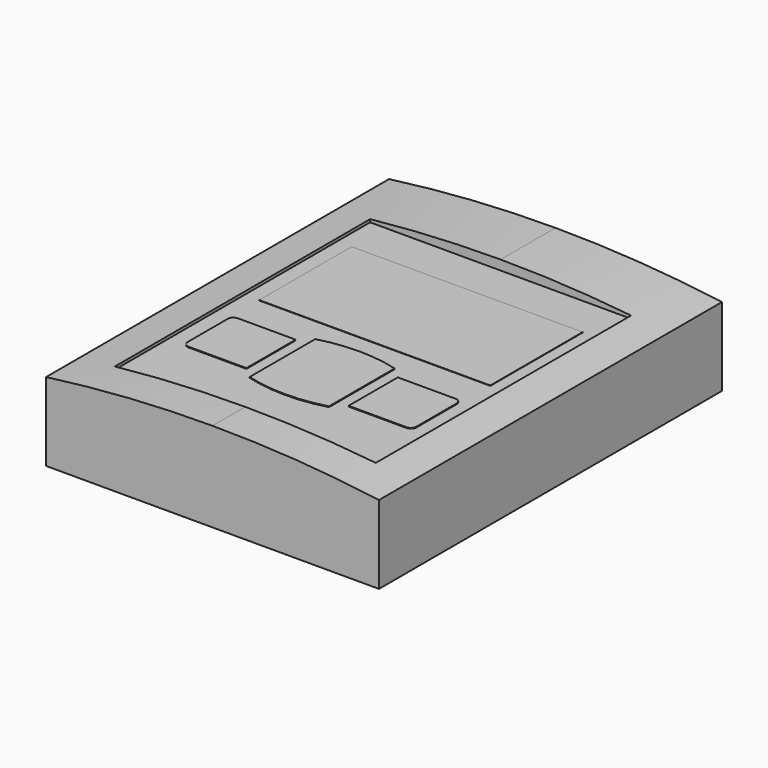
from build123d import *

# Parameters (mm, degrees)
F1_DEPTH  = 57.5
F2_W      = 16
F2_H      = 15.3
F3_DEPTH  = 3
F2_R      = 2
F4_DEPTH  = 10
F6_W      = 70
F6_H      = 85.6
F7_DEPTH  = 2.6
F8_W      = 62
F8_H      = 31
F9_DEPTH  = 0.1
F10_DEPTH = 0.2


with BuildPart() as f1:
    # F0 (on Front) → F1 (new body, symmetric)
    with BuildSketch(Plane.XZ):
        with BuildLine():
            Line((-44.65, 0), (0, 0))
            Line((0, 0), (0, 24))
            ThreePointArc((0, 24), (-22.375335, 23.249155), (-44.65, 21))
            Line((-44.65, 21), (-44.65, 0))
        make_face()
        with BuildLine():
            Line((0, 24), (0, 0))
            Line((0, 0), (44.65, 0))
            Line((44.65, 0), (44.65, 21))
            ThreePointArc((44.65, 21), (22.375335, 23.249155), (0, 24))
        make_face()
    extrude(amount=F1_DEPTH, both=True)

    # F2 (on face) → F3 (join)
    with BuildSketch(Plane(origin=(0, 0, 0), x_dir=(1, 0, 0), z_dir=(0, 0, -1))):
        with Locations((24, 18)):
            Rectangle(F2_W, F2_H)
        Polygon((30.05, 14.05), (17.95, 14.05), (17.95, 20.95), (20.65, 20.95), (20.65, 22.7), (21.7, 22.7), (21.7, 24.45), (26.3, 24.45), (26.3, 22.7), (27.35, 22.7), (27.35, 20.95), (30.05, 20.95), align=None, mode=Mode.SUBTRACT)
    extrude(amount=F3_DEPTH)

    # F2 (on face) → F4 (cut)
    with BuildSketch(Plane(origin=(0, 0, 0), x_dir=(1, 0, 0), z_dir=(0, 0, -1))):
        Polygon((17.95, 20.95), (17.95, 14.05), (30.05, 14.05), (30.05, 20.95), (27.35, 20.95), (27.35, 22.7), (26.3, 22.7), (26.3, 24.45), (21.7, 24.45), (21.7, 22.7), (20.65, 22.7), (20.65, 20.95), align=None)
        with Locations((39, 53)):
            Circle(F2_R)
        with Locations((-39, 53)):
            Circle(F2_R)
        with Locations((-39, -53)):
            Circle(F2_R)
        with Locations((39, -53)):
            Circle(F2_R)
    extrude(amount=-F4_DEPTH, mode=Mode.SUBTRACT)

    # F6 (on offset) → F7 (cut)
    with BuildSketch(Plane.XY.offset(24)):
        with Locations((0, -3.7)):
            Rectangle(F6_W, F6_H)
    extrude(amount=-F7_DEPTH, mode=Mode.SUBTRACT)


with BuildPart() as f9:
    # F8 (on face) → F9 (new body)
    with BuildSketch(Plane.XY.offset(21.4)):
        with Locations((0, 12.4)):
            Rectangle(F8_W, F8_H)
    extrude(amount=F9_DEPTH)


with BuildPart() as f10:
    # F8 (on face) → F10 (new body)
    with BuildSketch(Plane.XY.offset(21.4)):
        with BuildLine():
            Line((-13.7, -12.5), (-29.2, -12.5))
            ThreePointArc((-29.2, -12.5), (-30.26066, -12.93934), (-30.7, -14))
            Line((-30.7, -14), (-30.7, -27.5))
            ThreePointArc((-30.7, -27.5), (-30.26066, -28.56066), (-29.2, -29))
            Line((-29.2, -29), (-13.7, -29))
            Line((-13.7, -29), (-13.7, -12.5))
        make_face()
        with BuildLine():
            ThreePointArc((29.2, -29), (30.26066, -28.56066), (30.7, -27.5))
            Line((30.7, -27.5), (30.7, -14))
            ThreePointArc((30.7, -14), (30.26066, -12.93934), (29.2, -12.5))
            Line((29.2, -12.5), (13.7, -12.5))
            Line((13.7, -12.5), (13.7, -29))
            Line((13.7, -29), (29.2, -29))
        make_face()
        with BuildLine():
            ThreePointArc((10.65, -9.75), (0, -8.30616), (-10.65, -9.75))
            Line((-10.65, -9.75), (-10.65, -31.75))
            ThreePointArc((-10.65, -31.75), (0, -33.19384), (10.65, -31.75))
            Line((10.65, -31.75), (10.65, -9.75))
        make_face()
    extrude(amount=F10_DEPTH)


solid = Compound([f1.part, f9.part, f10.part])
